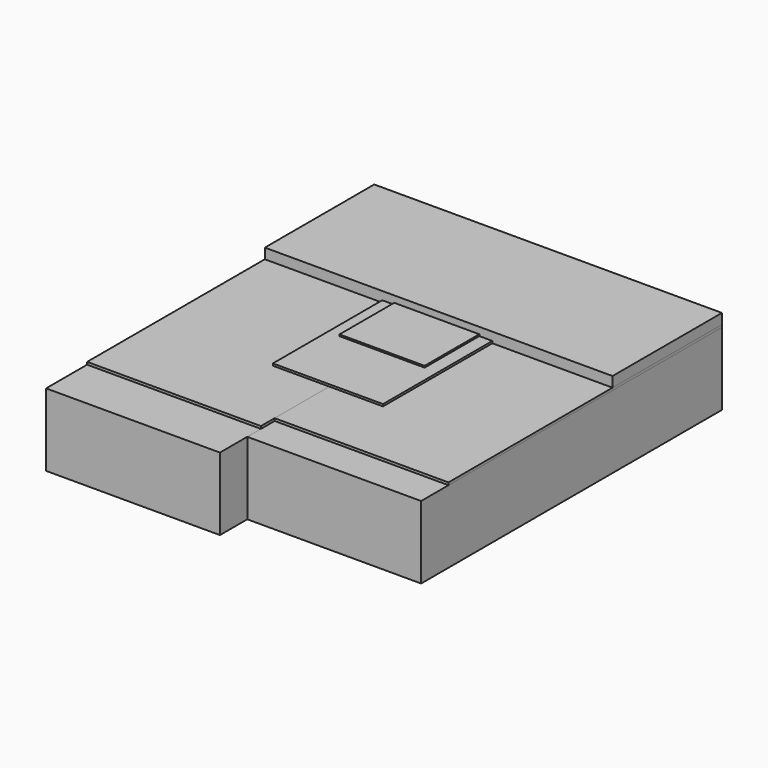
from build123d import *

# Parameters (mm, degrees)
F0_W     = 25.430768
F0_H     = 10.628652
F1_DEPTH = 60
F0_W_2   = 25.430769
F2_DEPTH = 55
F3_DEPTH = 50
F4_DEPTH = 52.5
F5_DEPTH = 40
F0_W_3   = 12.445013
F0_H_2   = 0.239326
F6_DEPTH = 30
F7_DEPTH = 20


with BuildPart() as f1:
    # F0 (on Front) → F1 (new body)
    with BuildSketch(Plane.XZ):
        with Locations((-24.763823, 7.793959)):
            Rectangle(F0_W, F0_H)
    extrude(amount=F1_DEPTH)


with BuildPart() as f2:
    # F0 (on Front) → F2 (new body)
    with BuildSketch(Plane.XZ):
        with Locations((0.666945, 7.793959)):
            Rectangle(F0_W_2, F0_H)
    extrude(amount=F2_DEPTH)


with BuildPart() as f3:
    # F0 (on Front) → F3 (new body)
    with BuildSketch(Plane.XZ):
        Polygon((-4.195883, 13.47276), (-12.048439, 13.47276), (-12.048439, 13.108285), (13.38233, 13.108285), (13.38233, 13.47276), align=None)
    extrude(amount=F3_DEPTH)


with BuildPart() as f4:
    # F0 (on Front) → F4 (new body)
    with BuildSketch(Plane.XZ):
        Polygon((-20.302601, 13.47276), (-37.479207, 13.47276), (-37.479207, 13.108285), (-12.048439, 13.108285), (-12.048439, 13.47276), align=None)
    extrude(amount=F4_DEPTH)


with BuildPart() as f5:
    # F0 (on Front) → F5 (new body)
    with BuildSketch(Plane.XZ):
        Polygon((-20.302601, 13.778402), (-20.302601, 13.47276), (-12.048439, 13.47276), (-4.195883, 13.47276), (-4.195883, 13.778402), (-6.1105, 13.778402), (-18.555513, 13.778402), align=None)
    extrude(amount=F5_DEPTH)


with BuildPart() as f6:
    # F0 (on Front) → F6 (new body)
    with BuildSketch(Plane.XZ):
        with Locations((-12.333006, 13.898065)):
            Rectangle(F0_W_3, F0_H_2)
    extrude(amount=F6_DEPTH)


with BuildPart() as f7:
    # F0 (on Front) → F7 (new body)
    with BuildSketch(Plane.XZ):
        Polygon((-37.479207, 14.975037), (-37.479207, 13.47276), (-20.302601, 13.47276), (-20.302601, 13.778402), (-18.555513, 13.778402), (-18.555513, 14.017728), (-6.1105, 14.017728), (-6.1105, 13.778402), (-4.195883, 13.778402), (-4.195883, 13.47276), (13.38233, 13.47276), (13.38233, 14.975037), align=None)
    extrude(amount=F7_DEPTH)


solid = Compound([f1.part, f2.part, f3.part, f4.part, f5.part, f6.part, f7.part])
